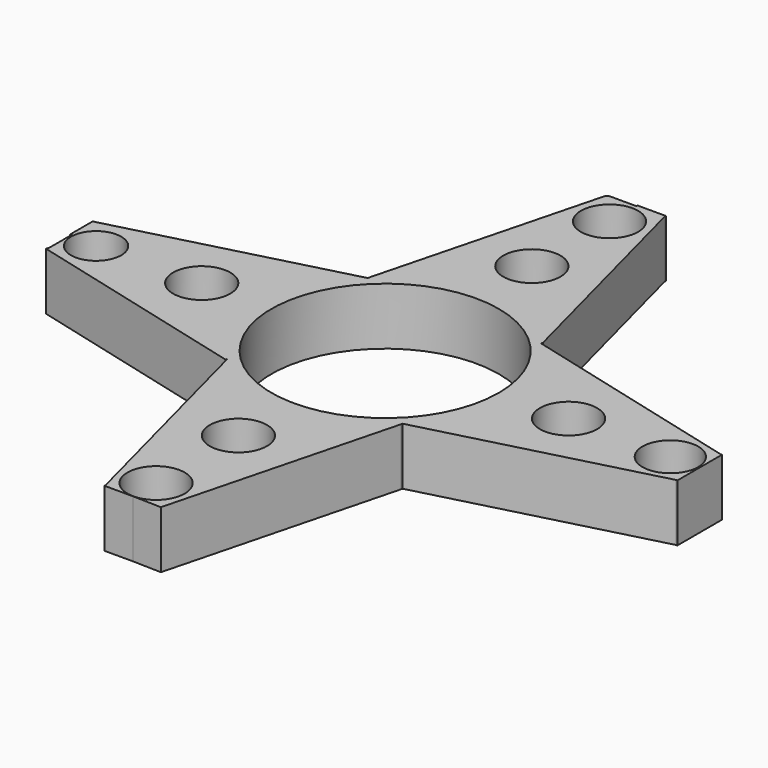
from build123d import *

# Parameters (mm, degrees)
F0_R     = 3.075923
F0_R_2   = 3.497253
F0_R_3   = 3.40731
F0_R_4   = 13.899926
F0_R_5   = 3.497252
F1_DEPTH = 7


with BuildPart() as f1:
    # F0 (on Top) → F1 (new body)
    with BuildSketch(Plane.XY):
        with BuildLine():
            ThreePointArc((0.996115, -38.345504), (2.803066, -37.084421), (3.497242, -34.993124))
            ThreePointArc((3.497242, -34.993124), (-2.803066, -32.901827), (0.996115, -38.345504))
        make_face()
        Polygon((0, -38.515605), (3.472779, -38.609888), (10.659512, -10.923896), (10.713998, -10.713998), (38.329154, -3.497253), (38.515605, -3.497253), (38.515605, 0), (38.515605, 3.317366), (38.345504, 3.317366), (10.659512, 10.5041), (10.713998, 10.713998), (3.497253, 38.329154), (3.497253, 38.515605), (0, 38.515605), (0.089943, 38.345504), (-3.317366, 38.345504), (-3.58175, 38.190092), (-10.713998, 10.713998), (-38.329154, 3.497253), (-38.515605, 3.497253), (-38.515605, 0), (-38.345504, 0.089943), (-38.345504, -3.317366), (-38.454475, -3.737162), (-10.768483, -10.923896), (-10.713998, -10.713998), (-3.497253, -38.329154), (-3.497253, -38.515605), align=None)
        with Locations((-35.088168, -0.30512)):
            Circle(F0_R, mode=Mode.SUBTRACT)
        with BuildLine():
            ThreePointArc((0.996115, -38.345504), (-2.803066, -32.901827), (3.497242, -34.993124))
            ThreePointArc((3.497242, -34.993124), (2.803066, -37.084421), (0.996115, -38.345504))
        make_face(mode=Mode.SUBTRACT)
        with Locations((0, -22.420802)):
            Circle(F0_R_2, mode=Mode.SUBTRACT)
        with Locations((34.938195, -0.089943)):
            Circle(F0_R_3, mode=Mode.SUBTRACT)
        with Locations((-22.420802, 0)):
            Circle(F0_R_2, mode=Mode.SUBTRACT)
        Circle(F0_R_4, mode=Mode.SUBTRACT)
        with Locations((22.420802, 0)):
            Circle(F0_R_2, mode=Mode.SUBTRACT)
        with Locations((0, 22.420802)):
            Circle(F0_R_2, mode=Mode.SUBTRACT)
        with Locations((0, 34.286165)):
            Circle(F0_R_5, mode=Mode.SUBTRACT)
    extrude(amount=F1_DEPTH)


solid = f1.part
